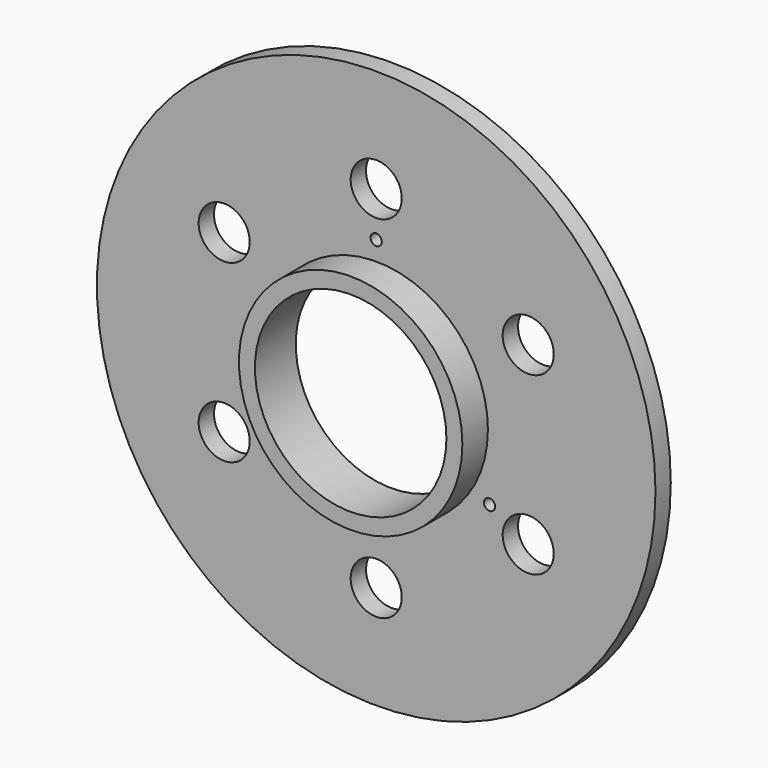
from build123d import *

# Parameters (mm, degrees)
F0_R     = 43.75
F0_R_2   = 4
F0_R_3   = 0.88
F0_R_4   = 17.5
F0_R_5   = 15
F1_DEPTH = 3
F2_DEPTH = 8


with BuildPart() as f1:
    # F0 (on Front) → F1 (new body)
    with BuildSketch(Plane.XZ):
        Circle(F0_R)
        with Locations((-23.815699, -13.75)):
            Circle(F0_R_2, mode=Mode.SUBTRACT)
        with Locations((-17.753521, -10.25)):
            Circle(F0_R_3, mode=Mode.SUBTRACT)
        with Locations((0, -27.5)):
            Circle(F0_R_2, mode=Mode.SUBTRACT)
        with Locations((17.753521, -10.25)):
            Circle(F0_R_3, mode=Mode.SUBTRACT)
        with Locations((23.815699, -13.75)):
            Circle(F0_R_2, mode=Mode.SUBTRACT)
        with Locations((-23.815699, 13.75)):
            Circle(F0_R_2, mode=Mode.SUBTRACT)
        Circle(F0_R_4, mode=Mode.SUBTRACT)
        with Locations((0, 20.5)):
            Circle(F0_R_3, mode=Mode.SUBTRACT)
        with Locations((23.815699, 13.75)):
            Circle(F0_R_2, mode=Mode.SUBTRACT)
        with Locations((0, 27.5)):
            Circle(F0_R_2, mode=Mode.SUBTRACT)
        Circle(F0_R_4)
        Circle(F0_R_5, mode=Mode.SUBTRACT)
    extrude(amount=F1_DEPTH)

    # F0 (on Front) → F2 (join)
    with BuildSketch(Plane.XZ):
        Circle(F0_R_4)
        Circle(F0_R_5, mode=Mode.SUBTRACT)
    extrude(amount=F2_DEPTH)


solid = f1.part
